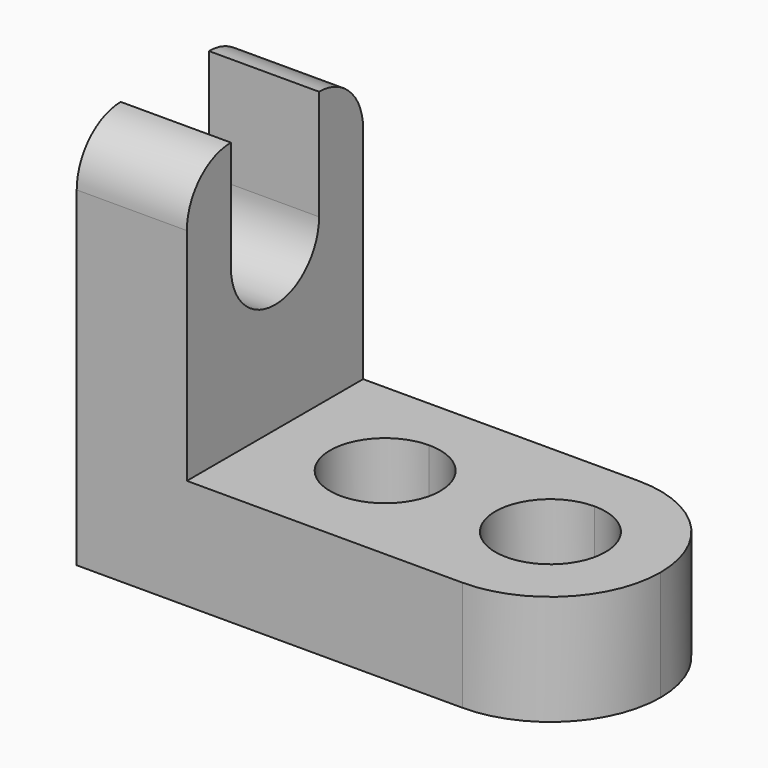
from build123d import *

# Parameters (mm, degrees)
F0_W      = 57.15
F0_H      = 25.4
F1_DEPTH  = 44.45
F2_W      = 44.45
F2_H      = 31.75
F3_DEPTH  = 25.4
F5_DEPTH  = 25.4
F7_DEPTH  = 25.4
F9_DEPTH  = 25.4
F11_DEPTH = 25.4


with BuildPart() as f1:
    # F0 (on Top) → F1 (new body)
    with BuildSketch(Plane.XY):
        with Locations((13.5305307649, 0)):
            Rectangle(F0_W, F0_H)
    extrude(amount=F1_DEPTH)

    # F2 (on face) → F3 (cut)
    with BuildSketch(Plane.XZ.offset(12.7)):
        with Locations((19.8805307649, 28.575)):
            Rectangle(F2_W, F2_H)
    extrude(amount=-F3_DEPTH, mode=Mode.SUBTRACT)

    # F4 (on face) → F5 (cut)
    with BuildSketch(Plane.YZ.offset(-2.3444692351)):
        with BuildLine():
            Line((-6.35, 44.45), (-6.35, 31.75))
            ThreePointArc((-6.35, 31.75), (0, 25.4), (6.35, 31.75))
            Line((6.35, 31.75), (6.35, 44.45))
            Line((6.35, 44.45), (-6.35, 44.45))
        make_face()
    extrude(amount=-F5_DEPTH, mode=Mode.SUBTRACT)

    # F6 (on face) → F7 (cut)
    with BuildSketch(Plane.YZ.offset(-2.3444692351)):
        with BuildLine():
            Line((12.7, 44.45), (6.35, 44.45))
            ThreePointArc((6.35, 44.45), (10.8401280605, 42.5901280605), (12.7, 38.1))
            Line((12.7, 38.1), (12.7, 44.45))
        make_face()
        with BuildLine():
            ThreePointArc((-12.7, 38.1), (-10.8401280605, 42.5901280605), (-6.35, 44.45))
            Line((-6.35, 44.45), (-12.7, 44.45))
            Line((-12.7, 44.45), (-12.7, 38.1))
        make_face()
    extrude(amount=-F7_DEPTH, mode=Mode.SUBTRACT)

    # F8 (on face) → F9 (cut)
    with BuildSketch(Plane.XY.offset(12.7)):
        with BuildLine():
            ThreePointArc((29.4055307649, 6.35), (24.9154027044, -4.4901280605), (35.7555307649, 0))
            ThreePointArc((35.7555307649, 0), (33.8956588254, 4.4901280605), (29.4055307649, 6.35))
        make_face()
        with BuildLine():
            ThreePointArc((10.3555307649, 6.35), (5.8654027044, -4.4901280605), (16.7055307649, 0))
            ThreePointArc((16.7055307649, 0), (14.8456588254, 4.4901280605), (10.3555307649, 6.35))
        make_face()
    extrude(amount=-F9_DEPTH, mode=Mode.SUBTRACT)

    # F10 (on face) → F11 (cut)
    with BuildSketch(Plane.XY.offset(12.7)):
        with BuildLine():
            ThreePointArc((29.4055307649, 12.7), (38.3857868834, 8.9802561236), (42.1055307649, 7.1e-09))
            Line((42.1055307649, 7.1e-09), (42.1055307649, 12.7))
            Line((42.1055307649, 12.7), (29.4055307649, 12.7))
        make_face()
        with BuildLine():
            ThreePointArc((42.1055307649, 7.1e-09), (38.3857868885, -8.9802561186), (29.4055307649, -12.7))
            Line((29.4055307649, -12.7), (42.1055307649, -12.7))
            Line((42.1055307649, -12.7), (42.1055307649, 7.1e-09))
        make_face()
    extrude(amount=-F11_DEPTH, mode=Mode.SUBTRACT)


solid = f1.part
